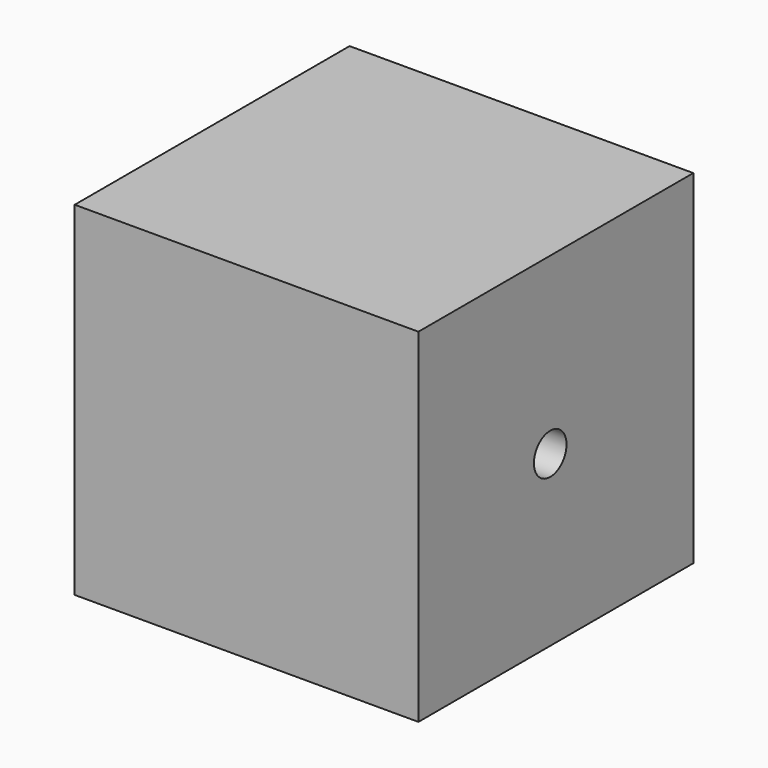
from build123d import *

# Parameters (mm, degrees)
F1_DEPTH = 53.5178
F3_D     = 6.35


with BuildPart() as f1:
    # F0 (on Front) → F1 (new body)
    with BuildSketch(Plane.XZ):
        Polygon((-7.970224, 53.50823), (-61.509263, 53.508066), (-61.509263, 0), (-7.970224, 0), align=None)
    extrude(amount=F1_DEPTH)

    # F3 (through all)
    with Locations(Plane.YZ):
        with Locations((-27.858989, 26.336402)):
            Hole(F3_D / 2)


solid = f1.part
